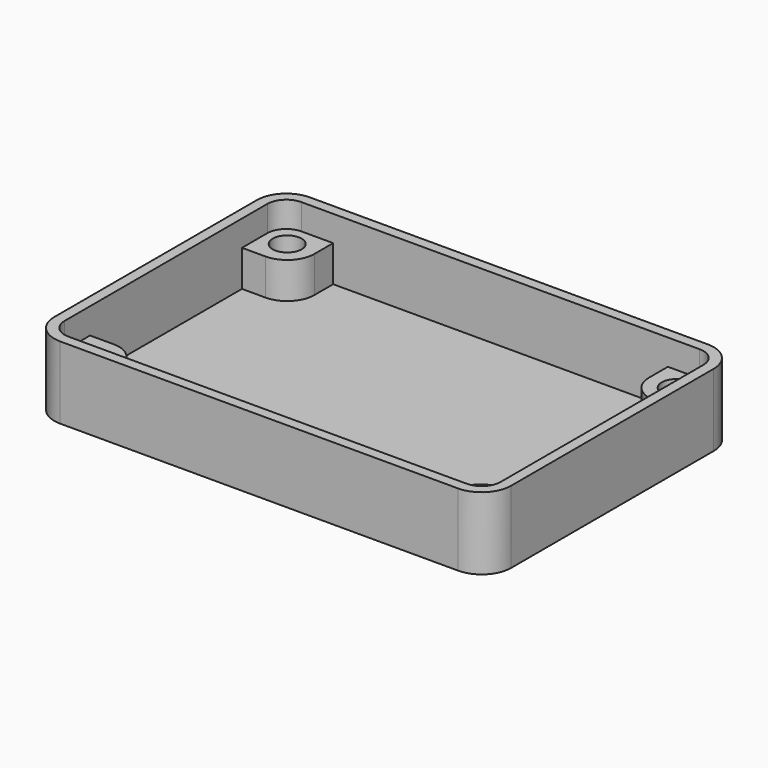
from build123d import *

# Parameters (mm, degrees)
PAD_DEPTH    = 8
THICKNESS_T  = -1.15
SKETCH002_R  = 1.6
PAD008_DEPTH = 4


with BuildPart() as part:
    # Sketch001 → Pad (new body)
    with BuildSketch(Plane.XY):
        with BuildLine():
            Line((-25.25, 14), (-25.25, -14))
            ThreePointArc((-25.25, -14), (-24.298097, -16.298097), (-22, -17.25))
            Line((-22, -17.25), (22, -17.25))
            ThreePointArc((22, -17.25), (24.298097, -16.298097), (25.25, -14))
            Line((25.25, -14), (25.25, 14))
            ThreePointArc((25.25, 14), (24.298097, 16.298097), (22, 17.25))
            Line((22, 17.25), (-22, 17.25))
            ThreePointArc((-22, 17.25), (-24.298097, 16.298097), (-25.25, 14))
        make_face()
    extrude(amount=-PAD_DEPTH)

    # Thickness
    thickness_openings = [part.faces().sort_by_distance(p)[0] for p in [
        (0, 0, 0),
    ]]
    offset(amount=THICKNESS_T, openings=thickness_openings)

    # Sketch002 (on Face19 of Thickness) → Pad008 (join)
    with BuildSketch(Plane.XY.offset(-6.85)):
        with BuildLine():
            Line((-24.1, 14), (-24.1, 10.5))
            Line((-24.1, 10.5), (-21.5, 10.5))
            ThreePointArc((-21.5, 10.5), (-19.37868, 11.37868), (-18.5, 13.5))
            Line((-18.5, 13.5), (-18.5, 16.1))
            Line((-18.5, 16.1), (-22, 16.1))
            ThreePointArc((-22, 16.1), (-23.484924, 15.484924), (-24.1, 14))
        make_face()
        with Locations((-21.5, 13.5)):
            Circle(SKETCH002_R, mode=Mode.SUBTRACT)
        with BuildLine():
            Line((18.5, 16.1), (18.5, 13.5))
            ThreePointArc((18.5, 13.5), (19.37868, 11.37868), (21.5, 10.5))
            Line((21.5, 10.5), (24.1, 10.5))
            Line((24.1, 10.5), (24.1, 14))
            ThreePointArc((24.1, 14), (23.484924, 15.484924), (22, 16.1))
            Line((22, 16.1), (18.5, 16.1))
        make_face()
        with Locations((21.5, 13.5)):
            Circle(SKETCH002_R, mode=Mode.SUBTRACT)
        with BuildLine():
            Line((-21.5, -10.5), (-24.1, -10.5))
            Line((-24.1, -10.5), (-24.1, -14))
            ThreePointArc((-24.1, -14), (-23.484924, -15.484924), (-22, -16.1))
            Line((-22, -16.1), (-18.5, -16.1))
            Line((-18.5, -16.1), (-18.5, -13.5))
            ThreePointArc((-18.5, -13.5), (-19.37868, -11.37868), (-21.5, -10.5))
        make_face()
        with Locations((-21.5, -13.5)):
            Circle(SKETCH002_R, mode=Mode.SUBTRACT)
        with BuildLine():
            Line((18.5, -13.5), (18.5, -16.1))
            Line((18.5, -16.1), (22, -16.1))
            ThreePointArc((22, -16.1), (23.484924, -15.484924), (24.1, -14))
            Line((24.1, -14), (24.1, -10.5))
            Line((24.1, -10.5), (21.5, -10.5))
            ThreePointArc((21.5, -10.5), (19.37868, -11.37868), (18.5, -13.5))
        make_face()
        with Locations((21.5, -13.5)):
            Circle(SKETCH002_R, mode=Mode.SUBTRACT)
    extrude(amount=PAD008_DEPTH)


solid = part.part
